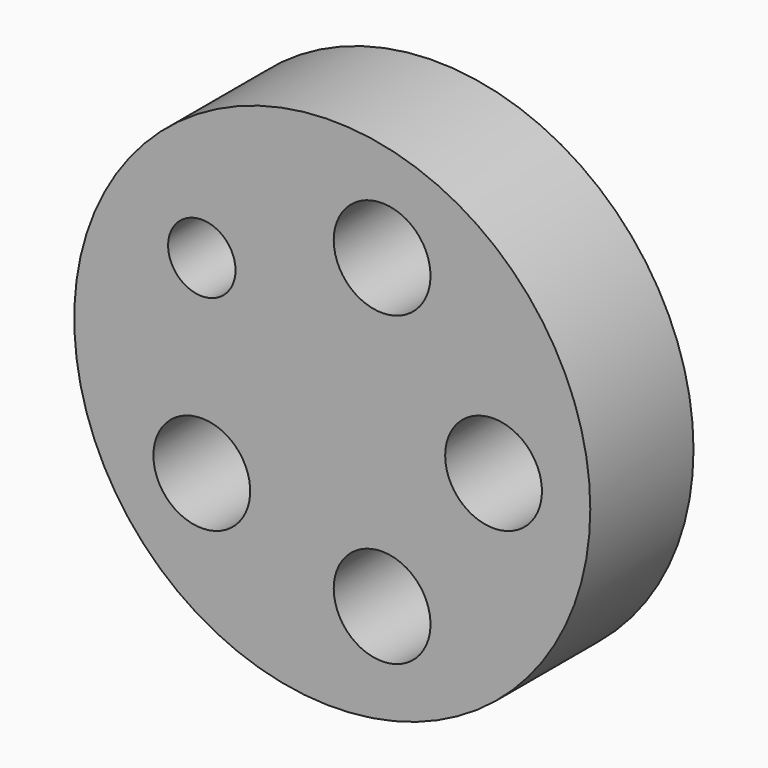
from build123d import *

# Parameters (mm, degrees)
F0_R      = 50.8
F1_DEPTH  = 25.4
F3_D      = 19.05
F4_R      = 6.634992
F5_DEPTH  = 25.4
F6_R      = 3.175
F7_DEPTH  = 25.4
F5_FACE_R = 6.634992
F8_DEPTH  = 101.6


with BuildPart() as f1:
    # F0 (on Front) → F1 (new body)
    with BuildSketch(Plane.XZ):
        Circle(F0_R)
        Polygon((15.875, 27.496307), (31.75, 0), (15.875, -27.496307), (-15.875, -27.496307), (-31.75, 0), (-15.875, 27.496307), align=None, mode=Mode.SUBTRACT)
        Polygon((15.875, -27.496307), (31.75, 0), (15.875, 27.496307), (-15.875, 27.496307), (-31.75, 0), (-15.875, -27.496307), align=None)
    extrude(amount=F1_DEPTH)

    # F3 (through all)
    with Locations(Plane.XZ.offset(25.4)):
        with Locations((9.81129, 30.196044), (31.75, 0), (-25.68629, -18.662182), (9.81129, -30.196044)):
            Hole(F3_D / 2)

    # F4 (on face) → F5 (join)
    with BuildSketch(Plane.XZ.offset(25.4)):
        with Locations((-25.68629, 18.662182)):
            Circle(F4_R)
    extrude(amount=F5_DEPTH)

    # F6 (on face) → F7 (join)
    with BuildSketch(Plane.XZ.offset(25.4)):
        with Locations((-25.68629, 18.662182)):
            Circle(F6_R)
    extrude(amount=F7_DEPTH)

    # F5_face (on face) → F8 (cut)
    with BuildSketch(Plane(origin=(-25.68629, -50.8, 18.662182), x_dir=(1, 0, 0), z_dir=(0, -1, 0))):
        Circle(F5_FACE_R)
    extrude(amount=-F8_DEPTH, mode=Mode.SUBTRACT)


solid = f1.part
